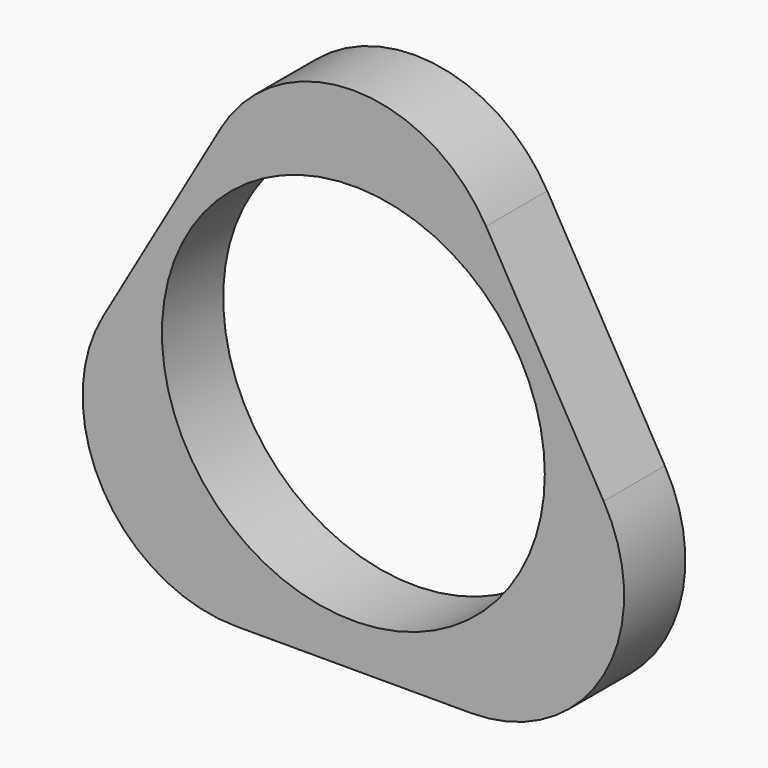
from build123d import *

# Parameters (mm, degrees)
F0_R     = 12.5
F1_DEPTH = 5
F2_R     = 10


with BuildPart() as f1:
    # F0 (on Front) → F1 (new body)
    with BuildSketch(Plane.XZ):
        Polygon((25, 43.30127), (0, 0), (50, 0), align=None)
        with Locations((25, 15.30127)):
            Circle(F0_R, mode=Mode.SUBTRACT)
    extrude(amount=F1_DEPTH)

    # F2
    f2_edges = [f1.edges().sort_by_distance(p)[0] for p in [
        (25, -2.5, 43.30127),
        (0, -2.5, 0),
        (50, -2.5, 0),
    ]]
    fillet(f2_edges, radius=F2_R)


solid = f1.part
